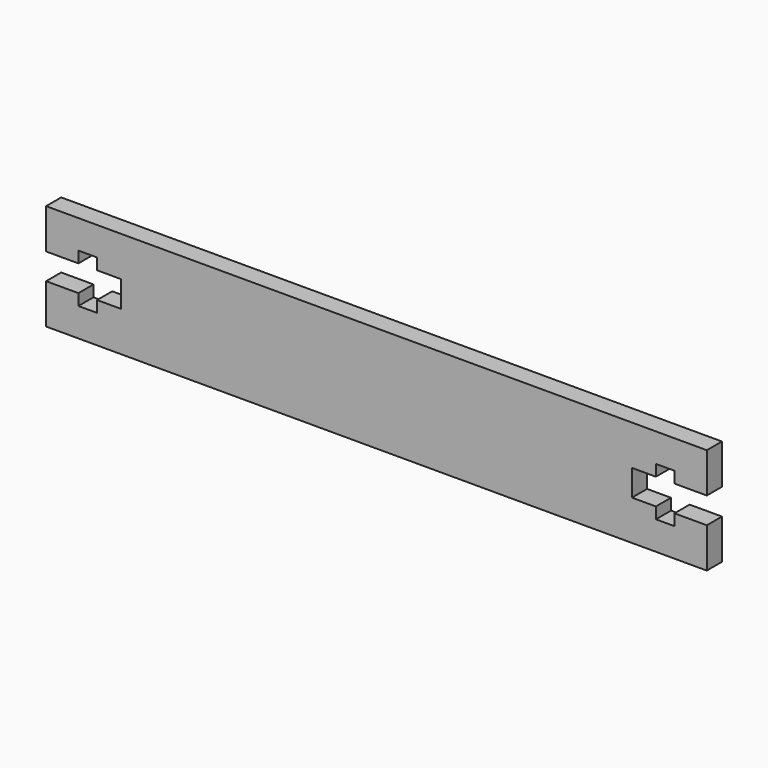
from build123d import *

# Parameters (mm, degrees)
F1_DEPTH = 2.9718


with BuildPart() as f1:
    # F0 (on Front) → F1 (new body)
    with BuildSketch(Plane.XZ):
        Polygon((45.889276, 37.738859), (-57.971324, 37.738859), (-57.971324, 31.465059), (-52.891324, 31.465059), (-52.891324, 33.243059), (-49.961284, 33.243059), (-49.961284, 31.465059), (-46.211727, 31.465059), (-46.211727, 27.350259), (-49.961284, 27.350259), (-49.961284, 25.572259), (-52.891324, 25.572259), (-52.891324, 27.350259), (-57.971324, 27.350259), (-57.971324, 21.076459), (45.889276, 21.076459), (45.889276, 27.350259), (40.809276, 27.350259), (40.809276, 25.572259), (37.888989, 25.572259), (37.888989, 27.350259), (34.12709, 27.350259), (34.12709, 31.465059), (37.888989, 31.465059), (37.888989, 33.243059), (40.809276, 33.243059), (40.809276, 31.465059), (45.889276, 31.465059), align=None)
    extrude(amount=F1_DEPTH)


solid = f1.part
